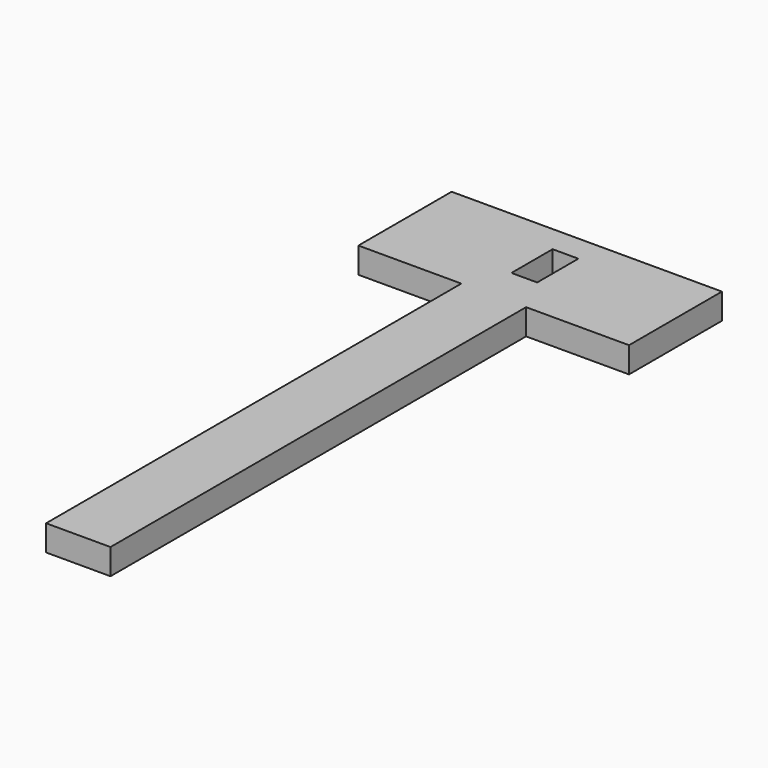
from build123d import *

# Parameters (mm, degrees)
F0_W      = 15.89278
F0_H      = 118.7259927564
F1_DEPTH  = 5.08
F2_W      = 15.9494206481
F2_H      = 5.08
F3_DEPTH  = 25.4
F4_W      = 16.0588771277
F4_H      = 5.08
F5_DEPTH  = 25.4
F6_DEPTH  = 12.7
F7_DEPTH  = 25.4
F8_W      = 6.35
F8_H      = 12.7
F9_DEPTH  = 25.4
F10_DEPTH = 1.27


with BuildPart() as f1:
    # F0 (on Top) → F1 (new body)
    with BuildSketch(Plane.XY):
        with Locations((7.94639, 59.3629963782)):
            Rectangle(F0_W, F0_H)
    extrude(amount=F1_DEPTH)

    # F2 (on face) → F3 (join)
    with BuildSketch(Plane.YZ.offset(15.89278)):
        with Locations((110.7512824323, 2.54)):
            Rectangle(F2_W, F2_H)
    extrude(amount=F3_DEPTH)

    # F4 (on face) → F5 (join)
    with BuildSketch(Plane(origin=(0, 0, 0), x_dir=(0, -1, 0), z_dir=(-1, 0, 0))):
        with Locations((-110.6965541926, 2.54)):
            Rectangle(F4_W, F4_H)
    extrude(amount=F5_DEPTH)

    # F6 (add): a face of the model
    f6_faces = [f1.faces().sort_by_distance(p)[0] for p in [
        (7.94639, 118.7259927564, 2.54),
    ]]
    extrude(f6_faces, amount=F6_DEPTH)

    # F7 (add): a face of the model
    f7_faces = [f1.faces().sort_by_distance(p)[0] for p in [
        (7.94639, 0, 2.54),
    ]]
    extrude(f7_faces, amount=F7_DEPTH)

    # F8 (on face) → F9 (cut)
    with BuildSketch(Plane.XY.offset(5.08)):
        with Locations((7.94639, 118.5111179948)):
            Rectangle(F8_W, F8_H)
    extrude(amount=-F9_DEPTH, mode=Mode.SUBTRACT)

    # F10 (add): a face of the model
    f10_faces = [f1.faces().sort_by_distance(p)[0] for p in [
        (7.9315574243, 75.7859315554, 5.08),
    ]]
    extrude(f10_faces, amount=F10_DEPTH)


solid = f1.part
